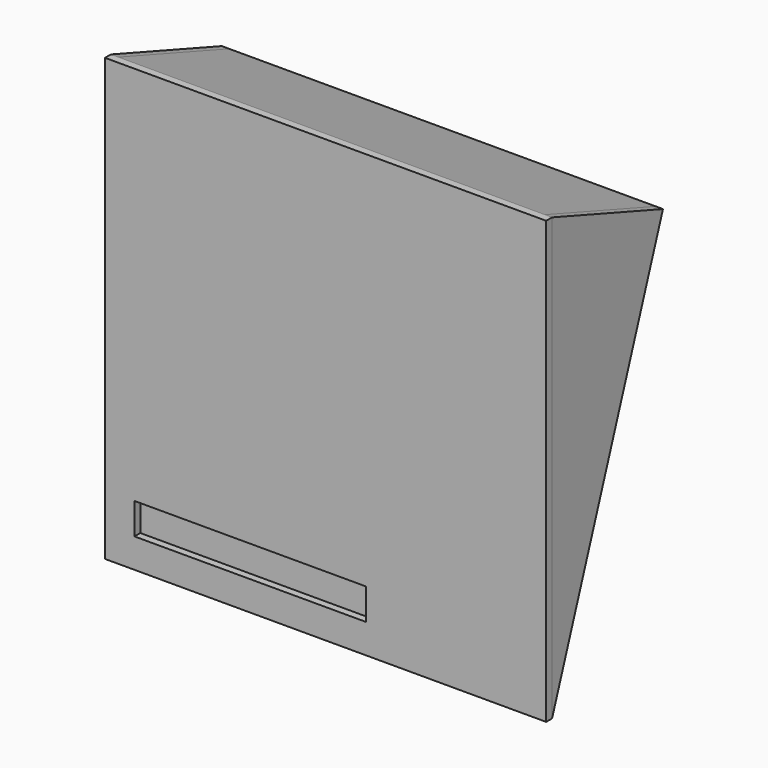
from build123d import *

# Parameters (mm, degrees)
F0_W      = 400.05
F0_H      = 53.975
F1_DEPTH  = 6.35
F3_DEPTH  = 6.35
F4_W      = 400.05
F4_H      = 53.975
F5_DEPTH  = 12.7
F6_DEPTH  = 12.7
F8_DEPTH  = 12.7
F10_DEPTH = 12.7
F11_W     = 736.6
F11_H     = 254
F12_DEPTH = 12.7


with BuildPart() as f1:
    # F0 (on Front) → F1 (new body)
    with BuildSketch(Plane.XZ):
        Polygon((0, 762), (0, 0), (50.8, 0), (762, 0), (762, 762), align=None)
        with Locations((250.825, 77.7875)):
            Rectangle(F0_W, F0_H, mode=Mode.SUBTRACT)
    extrude(amount=F1_DEPTH)

    # F3 (add): a face of the model
    f3_faces = [f1.faces().sort_by_distance(p)[0] for p in [
        (386.0278562155, 0, 392.711226063),
    ]]
    extrude(f3_faces, amount=F3_DEPTH)

    # F9 (on face) → F10 (join)
    with BuildSketch(Plane(origin=(0, 0, 0), x_dir=(0, -1, 0), z_dir=(-1, 0, 0))):
        Polygon((-6.35, 0), (-6.35, 762), (-245.8234965618, 677.3333333333), align=None)
    extrude(amount=-F10_DEPTH)


with BuildPart() as f5:
    # F4 (on face) → F5 (new body)
    with BuildSketch(Plane(origin=(0, 6.35, 0), x_dir=(-1, 0, 0), z_dir=(0, 1, 0))):
        with Locations((-250.825, 77.7875)):
            Rectangle(F4_W, F4_H)
    extrude(amount=F5_DEPTH)


with BuildPart() as f6:
    # F4 (on face) → F6 (new body)
    with BuildSketch(Plane(origin=(0, 6.35, 0), x_dir=(-1, 0, 0), z_dir=(0, 1, 0))):
        Polygon((-450.85, 104.775), (-50.8, 104.775), (-50.8, 155.575), (-508, 155.575), (-508, 41.275), (-50.8, 41.275), (-50.8, 50.8), (-450.85, 50.8), align=None)
    extrude(amount=F6_DEPTH)


with BuildPart() as f8:
    # F7 (on face) → F8 (new body)
    with BuildSketch(Plane.YZ.offset(762)):
        Polygon((245.8234965618, 677.3333333333), (6.35, 762), (6.35, 0), align=None)
    extrude(amount=-F8_DEPTH)


with BuildPart() as f12:
    # F11 (on face) → F12 (new body)
    with BuildSketch(Plane(origin=(0, 240.1790521174, 679.3289458047), x_dir=(1, 0, 0), z_dir=(0, 0.3333333333, 0.9428090416))):
        with Locations((381, -121.013162586)):
            Rectangle(F11_W, F11_H)
    extrude(amount=-F12_DEPTH)


solid = Compound([f1.part, f5.part, f6.part, f8.part, f12.part])
